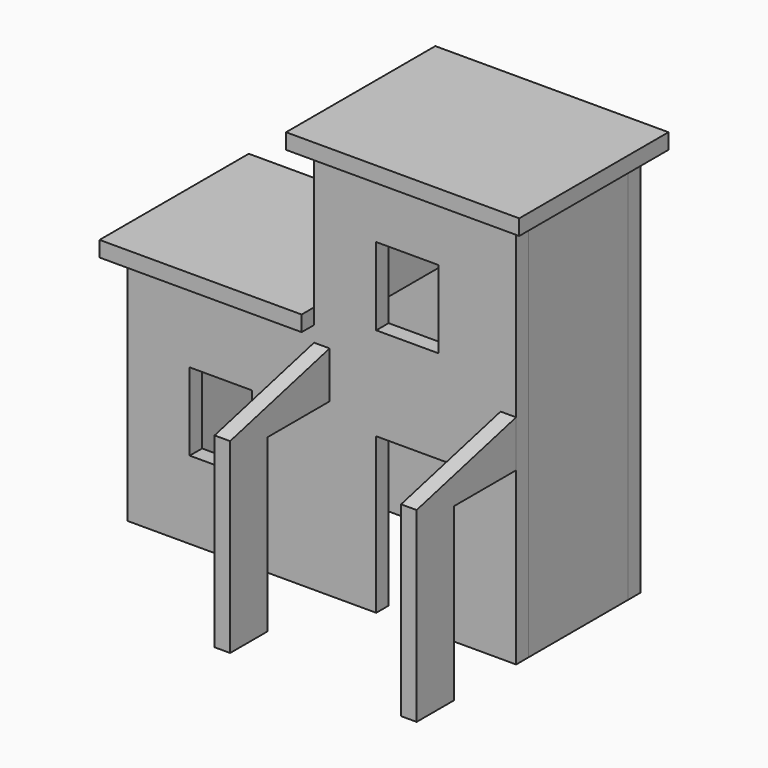
from build123d import *

# Parameters (mm, degrees)
F0_W      = 40
F0_H      = 50
F1_DEPTH  = 5
F4_DEPTH  = 10
F5_W      = 80
F5_H      = 250
F6_DEPTH  = 10
F7_W      = 80
F7_H      = 150
F8_DEPTH  = 10
F9_W      = 80
F9_H      = 100
F10_DEPTH = 10
F12_DEPTH = 10
F14_DEPTH = 10
F15_W     = 10
F15_H     = 140
F16_DEPTH = 80
F17_W     = 50
F17_H     = 110
F18_DEPTH = 130


with BuildPart() as f1:
    # F0 (on Front) → F1 (new body, symmetric)
    with BuildSketch(Plane.XZ):
        Polygon((0, 0), (0, 100), (50, 100), (50, 0), (90, 0), (90, 250), (-40, 250), (-40, 150), (-160, 150), (-160, 0), align=None)
        with Locations((-100, 75)):
            Rectangle(F0_W, F0_H, mode=Mode.SUBTRACT)
        with Locations((20, 185)):
            Rectangle(F0_W, F0_H, mode=Mode.SUBTRACT)
    extrude(amount=F1_DEPTH, both=True)


with BuildPart() as f4:
    # F3 (on offset) → F4 (new body)
    with BuildSketch(Plane(origin=(0, 85, 0), x_dir=(-1, 0, 0), z_dir=(0, 1, 0))):
        Polygon((-90, 250), (-90, 0), (-50, 0), (0, 0), (160, 0), (160, 150), (40, 150), (40, 250), align=None)
    extrude(amount=F4_DEPTH)


with BuildPart() as f6:
    # F5 (on face) → F6 (new body)
    with BuildSketch(Plane.YZ.offset(90)):
        with Locations((45, 125)):
            Rectangle(F5_W, F5_H)
    extrude(amount=-F6_DEPTH)


with BuildPart() as f8:
    # F7 (on face) → F8 (new body)
    with BuildSketch(Plane(origin=(-160, 0, 0), x_dir=(0, -1, 0), z_dir=(-1, 0, 0))):
        with Locations((-45, 75)):
            Rectangle(F7_W, F7_H)
    extrude(amount=-F8_DEPTH)


with BuildPart() as f10:
    # F9 (on face) → F10 (new body)
    with BuildSketch(Plane(origin=(-40, 0, 0), x_dir=(0, -1, 0), z_dir=(-1, 0, 0))):
        with Locations((-45, 200)):
            Rectangle(F9_W, F9_H)
    extrude(amount=-F10_DEPTH)


with BuildPart() as f12:
    # F11 (on face) → F12 (new body)
    with BuildSketch(Plane.XY.offset(150)):
        Polygon((-40, 105), (-170, 105), (-170, 85), (-170, 5), (-170, -15), (-40, -15), align=None)
    extrude(amount=F12_DEPTH)


with BuildPart() as f14:
    # F13 (on face) → F14 (new body)
    with BuildSketch(Plane.XY.offset(250)):
        Polygon((100, 105), (-50, 105), (-50, 85), (-50, 5), (-50, -15), (100, -15), (100, 5), (100, 85), align=None)
    extrude(amount=F14_DEPTH)


with BuildPart() as f16:
    # F15 (on face) → F16 (new body)
    with BuildSketch(Plane.XZ.offset(5)):
        with Locations((-35, 70)):
            Rectangle(F15_W, F15_H)
    extrude(amount=F16_DEPTH)


with BuildPart() as f16b:
    # F15 (on face) → F16, piece 2 (new body)
    with BuildSketch(Plane.XZ.offset(5)):
        with Locations((85, 70)):
            Rectangle(F15_W, F15_H)
    extrude(amount=F16_DEPTH)


with BuildPart() as f18_tool:
    # F17 (on face) → F18 (new body, through all)
    with BuildSketch(Plane.YZ.offset(90)):
        Polygon((-85, 120), (-5, 140), (-85, 140), align=None)
        with Locations((-30, 55)):
            Rectangle(F17_W, F17_H)
    extrude(amount=-F18_DEPTH)


with BuildPart() as f16_1:
    add(f16.part)

    # F18: cut by f18_tool
    add(f18_tool.part, mode=Mode.SUBTRACT)


with BuildPart() as f16b_1:
    add(f16b.part)

    # F18: cut by f18_tool
    add(f18_tool.part, mode=Mode.SUBTRACT)


solid = Compound([f1.part, f4.part, f6.part, f8.part, f10.part, f12.part, f14.part, f16_1.part, f16b_1.part])
